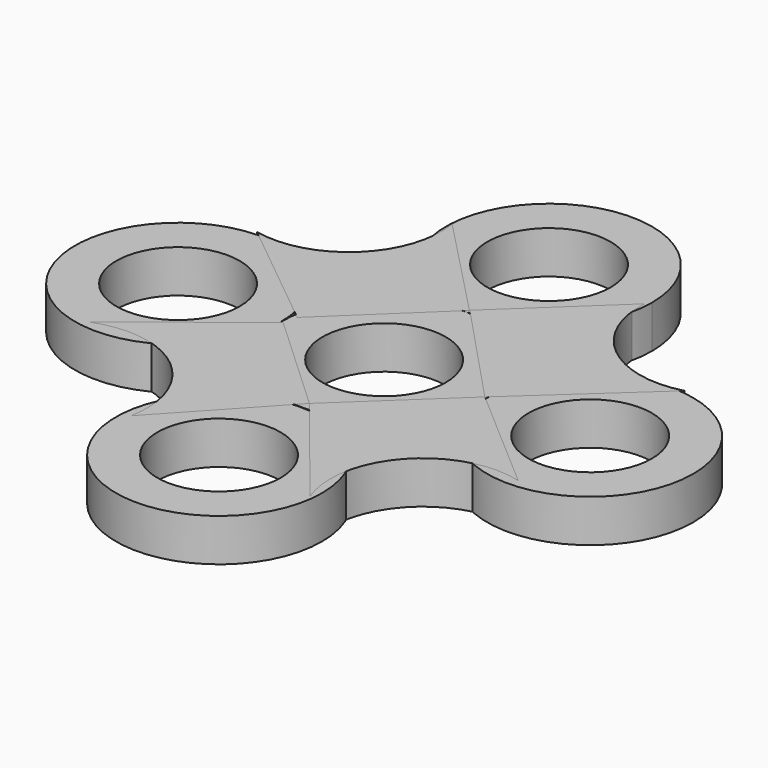
from build123d import *

# Parameters (mm, degrees)
F0_R      = 18.415
F1_DEPTH  = 7.62
F2_R      = 11.0236
F3_DEPTH  = 25.4
F4_R      = 18.415
F5_DEPTH  = 7.62
F6_R      = 18.415
F7_DEPTH  = 7.62
F9_DEPTH  = 7.62
F11_DEPTH = 7.62
F12_R     = 11.0236
F13_DEPTH = 25.4
F14_R     = 11.0236
F15_DEPTH = 25.4
F16_R     = 11.0236
F17_DEPTH = 25.4
F18_R     = 11.0236
F19_DEPTH = 25.4


with BuildPart() as f1:
    # F0 (on Top) → F1 (new body)
    with BuildSketch(Plane.XY):
        Circle(F0_R)
    extrude(amount=F1_DEPTH)

    # F2 (on face) → F3 (cut)
    with BuildSketch(Plane.XY.offset(7.62)):
        Circle(F2_R)
    extrude(amount=-F3_DEPTH, mode=Mode.SUBTRACT)

    # F4 (on Top) → F5 (join)
    with BuildSketch(Plane.XY):
        with Locations((0, 36.83)):
            Circle(F4_R)
    extrude(amount=F5_DEPTH)

    # F6 (on Top) → F7 (join)
    with BuildSketch(Plane.XY):
        with Locations((-36.83, 0)):
            Circle(F6_R)
        with Locations((36.830008, 0)):
            Circle(F6_R)
        with Locations((0, -36.88756)):
            Circle(F6_R)
    extrude(amount=F7_DEPTH)

    # F12 (on face) → F13 (cut)
    with BuildSketch(Plane.XY.offset(7.62)):
        with Locations((0, 36.83)):
            Circle(F12_R)
    extrude(amount=-F13_DEPTH, mode=Mode.SUBTRACT)

    # F14 (on face) → F15 (cut)
    with BuildSketch(Plane.XY.offset(7.62)):
        with Locations((-36.83, 0)):
            Circle(F14_R)
    extrude(amount=-F15_DEPTH, mode=Mode.SUBTRACT)

    # F16 (on face) → F17 (cut)
    with BuildSketch(Plane.XY.offset(7.62)):
        with Locations((0, -36.88756)):
            Circle(F16_R)
    extrude(amount=-F17_DEPTH, mode=Mode.SUBTRACT)

    # F18 (on face) → F19 (cut)
    with BuildSketch(Plane.XY.offset(7.62)):
        with Locations((36.830008, 0)):
            Circle(F18_R)
    extrude(amount=-F19_DEPTH, mode=Mode.SUBTRACT)


with BuildPart() as f9:
    # F8 (on Top) → F9 (new body)
    with BuildSketch(Plane.XY):
        with BuildLine():
            ThreePointArc((-18.21006, 37.965997), (-23.075391, 23.273694), (-37.969321, 19.065835))
            Line((-37.969321, 19.065835), (-17.44899, 2.411649))
            Line((-17.44899, 2.411649), (0, 19.065835))
            Line((0, 19.065835), (-18.21006, 37.965997))
        make_face()
    extrude(amount=F9_DEPTH)


with BuildPart() as f11:
    # F10 (on Top) → F11 (new body)
    with BuildSketch(Plane.XY):
        with BuildLine():
            Line((-17.004127, -35.289032), (0.105946, -16.819843))
            Line((0.105946, -16.819843), (-18.049959, 0))
            Line((-18.049959, 0), (-39.207064, -16.786588))
            ThreePointArc((-39.207064, -16.786588), (-22.64771, -19.488346), (-17.004127, -35.289032))
        make_face()
        with BuildLine():
            Line((37.425859, -16.819843), (18.000819, 0))
            Line((18.000819, 0), (0.105946, -16.819843))
            Line((0.105946, -16.819843), (17.721173, -38.713932))
            ThreePointArc((17.721173, -38.713932), (20.847804, -21.713745), (37.425859, -16.819843))
        make_face()
        with BuildLine():
            ThreePointArc((38.60252, 18.85836), (23.836713, 22.061984), (17.861157, 35.939483))
            Line((17.861157, 35.939483), (0, 19.15133))
            Line((0, 19.15133), (18.000819, 0))
            Line((18.000819, 0), (38.60252, 18.85836))
        make_face()
    extrude(amount=F11_DEPTH)


solid = Compound([f1.part, f9.part, f11.part])
